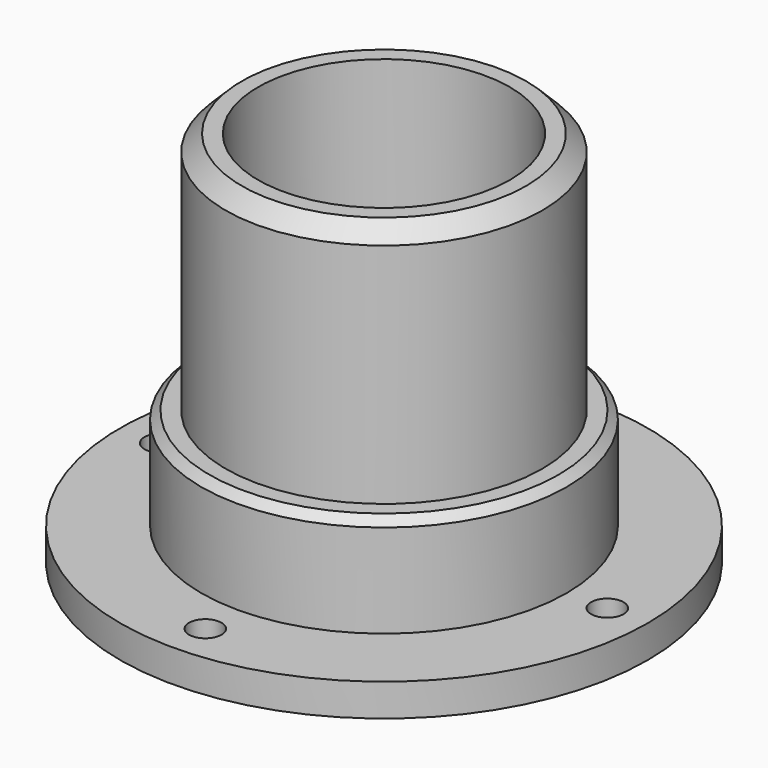
from build123d import *

# Parameters (mm, degrees)
F0_R     = 32.5
F1_DEPTH = 4
F2_R     = 22.5
F3_DEPTH = 12.5
F4_R     = 19.5
F5_DEPTH = 30
F6_R     = 15.5
F7_DEPTH = 46.501
F8_R     = 2
F9_DEPTH = 4.001
F10_SIZE = 2
F11_SIZE = 1


with BuildPart() as f1:
    # F0 (on Top) → F1 (new body)
    with BuildSketch(Plane.XY):
        Circle(F0_R)
    extrude(amount=F1_DEPTH)

    # F2 (on face) → F3 (join)
    with BuildSketch(Plane.XY.offset(4)):
        Circle(F2_R)
    extrude(amount=F3_DEPTH)

    # F4 (on face) → F5 (join)
    with BuildSketch(Plane.XY.offset(16.5)):
        Circle(F4_R)
    extrude(amount=F5_DEPTH)

    # F6 (on face) → F7 (cut, through all)
    with BuildSketch(Plane.XY.offset(46.5)):
        Circle(F6_R)
    extrude(amount=-F7_DEPTH, mode=Mode.SUBTRACT)

    # F8 (on face) → F9 (cut, through all)
    with BuildSketch(Plane.XY.offset(4)):
        with Locations((0, 27.5)):
            Circle(F8_R)
        with Locations((27.5, 0)):
            Circle(F8_R)
        with Locations((0, -27.5)):
            Circle(F8_R)
        with Locations((-27.5, 0)):
            Circle(F8_R)
    extrude(amount=-F9_DEPTH, mode=Mode.SUBTRACT)

    # F10
    f10_edges = [f1.edges().sort_by_distance(p)[0] for p in [
        (-19.5, 0, 46.5),
    ]]
    chamfer(f10_edges, length=F10_SIZE)

    # F11
    f11_edges = [f1.edges().sort_by_distance(p)[0] for p in [
        (-22.5, 0, 16.5),
    ]]
    chamfer(f11_edges, length=F11_SIZE)


solid = f1.part
